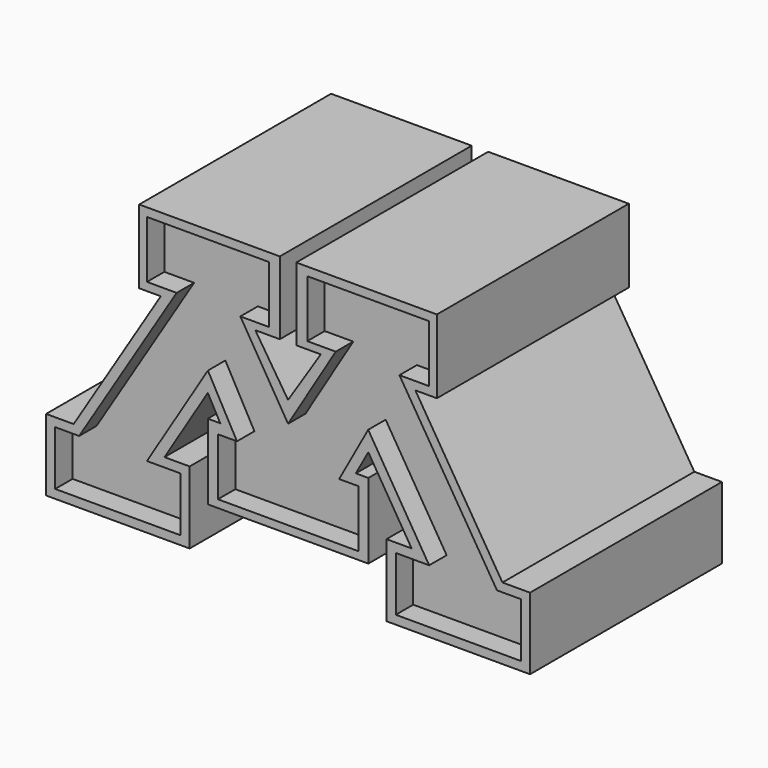
from build123d import *

# Parameters (mm, degrees)
F1_DEPTH = 25.4
F2_DEPTH = 27.94


with BuildPart() as f1:
    # F0 (on Front) → F1 (new body)
    with BuildSketch(Plane.XZ):
        Polygon((0, 26.830262), (0, 37.234288), (-5.556555, 46.435609), (-2.240721, 46.435609), (-2.240721, 53.097513), (-16.439889, 53.097513), (-16.439889, 46.435609), (-12.975313, 46.435609), (-24.338637, 28.06516), (-27.128741, 28.06516), (-27.128741, 21.727359), (-12.54946, 21.727359), (-12.54946, 28.06516), (-16.439889, 28.06516), (-9.336166, 39.656349), (-5.951528, 33.498235), (-8.177853, 33.498235), (-8.177853, 26.830262), align=None)
    extrude(amount=F1_DEPTH)

    # F0 (on Front) → F2 (join)
    with BuildSketch(Plane.XZ):
        Polygon((0, 37.234288), (0, 39.675493), (-3.814953, 45.588929), (-0.95885, 45.588929), (-0.95885, 54.082506), (-17.337842, 54.082506), (-17.337842, 45.48464), (-14.827147, 45.48464), (-24.975492, 29.078379), (-28.187823, 29.078379), (-28.187823, 20.709392), (-11.463354, 20.709392), (-11.463354, 29.128009), (-14.395286, 29.128009), (-9.349254, 37.361652), (-7.894423, 34.714688), (-9.349254, 34.714688), (-9.349254, 25.930258), (0, 25.930258), (0, 26.830262), (-8.177853, 26.830262), (-8.177853, 33.498235), (-5.951528, 33.498235), (-9.336166, 39.656349), (-16.439889, 28.06516), (-12.54946, 28.06516), (-12.54946, 21.727359), (-27.128741, 21.727359), (-27.128741, 28.06516), (-24.338637, 28.06516), (-12.975313, 46.435609), (-16.439889, 46.435609), (-16.439889, 53.097513), (-2.240721, 53.097513), (-2.240721, 46.435609), (-5.556555, 46.435609), align=None)
    extrude(amount=F2_DEPTH)

    # F3: F1 across face


with BuildPart() as f1_1:
    add(f1.part)
    add(f1.part.mirror(Plane(origin=(0, -13.031526, 32.859819), x_dir=(0, 1, 0), z_dir=(1, 0, 0))))


solid = f1_1.part
